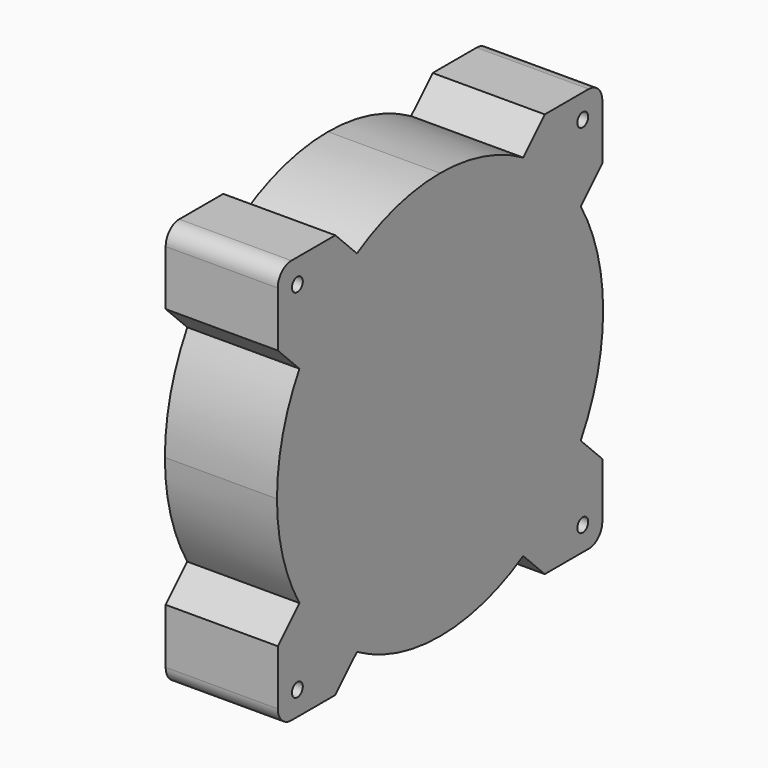
from build123d import *

# Parameters (mm, degrees)
F0_R     = 2
F1_DEPTH = 33
F2_DEPTH = 26


with BuildPart() as f1:
    # F0 (on Right) → F1 (new body)
    with BuildSketch(Plane.YZ):
        with BuildLine():
            ThreePointArc((-0.300123, 114.524561), (-1.748416, 118.089321), (-5.299918, 119.569828))
            Line((-5.299918, 119.569828), (-21.46806, 119.569828))
            Line((-21.46806, 119.569828), (-29.417219, 111.620669))
            ThreePointArc((-29.417219, 111.620669), (-44.145035, 117.867263), (-60, 120))
            ThreePointArc((-60, 120), (-75.854965, 117.867263), (-90.582781, 111.620669))
            Line((-90.582781, 111.620669), (-98.53194, 119.569828))
            Line((-98.53194, 119.569828), (-114.700082, 119.569828))
            ThreePointArc((-114.700082, 119.569828), (-118.251584, 118.089321), (-119.699877, 114.524561))
            Line((-119.699877, 114.524561), (-119.699877, 98.311358))
            Line((-119.699877, 98.311358), (-111.750718, 90.362199))
            ThreePointArc((-111.750718, 90.362199), (-117.900963, 75.731448), (-120, 60))
            ThreePointArc((-120, 60), (-117.900963, 44.268552), (-111.750718, 29.637801))
            Line((-111.750718, 29.637801), (-119.699877, 21.688642))
            Line((-119.699877, 21.688642), (-119.699877, 5.475439))
            ThreePointArc((-119.699877, 5.475439), (-118.251584, 1.910679), (-114.700082, 0.430172))
            Line((-114.700082, 0.430172), (-98.53194, 0.430172))
            Line((-98.53194, 0.430172), (-90.582781, 8.379331))
            ThreePointArc((-90.582781, 8.379331), (-75.854965, 2.132737), (-60, 0))
            ThreePointArc((-60, 0), (-44.145035, 2.132737), (-29.417219, 8.379331))
            Line((-29.417219, 8.379331), (-21.46806, 0.430172))
            Line((-21.46806, 0.430172), (-5.299918, 0.430172))
            ThreePointArc((-5.299918, 0.430172), (-1.748416, 1.910679), (-0.300123, 5.475439))
            Line((-0.300123, 5.475439), (-0.300123, 21.688642))
            Line((-0.300123, 21.688642), (-8.249282, 29.637801))
            ThreePointArc((-8.249282, 29.637801), (-2.099037, 44.268552), (0, 60))
            ThreePointArc((0, 60), (-2.099037, 75.731448), (-8.249282, 90.362199))
            Line((-8.249282, 90.362199), (-0.300123, 98.311358))
            Line((-0.300123, 98.311358), (-0.300123, 114.524561))
        make_face()
        with Locations((-112.5, 7.5)):
            Circle(F0_R, mode=Mode.SUBTRACT)
        with Locations((-7.5, 7.5)):
            Circle(F0_R, mode=Mode.SUBTRACT)
        with Locations((-112.5, 112.5)):
            Circle(F0_R, mode=Mode.SUBTRACT)
        with Locations((-7.5, 112.5)):
            Circle(F0_R, mode=Mode.SUBTRACT)
    extrude(amount=F1_DEPTH)

    # F0 (on Right) → F2 (join)
    with BuildSketch(Plane.YZ):
        with BuildLine():
            ThreePointArc((-0.300123, 114.524561), (-1.748416, 118.089321), (-5.299918, 119.569828))
            Line((-5.299918, 119.569828), (-21.46806, 119.569828))
            Line((-21.46806, 119.569828), (-29.417219, 111.620669))
            ThreePointArc((-29.417219, 111.620669), (-44.145035, 117.867263), (-60, 120))
            ThreePointArc((-60, 120), (-75.854965, 117.867263), (-90.582781, 111.620669))
            Line((-90.582781, 111.620669), (-98.53194, 119.569828))
            Line((-98.53194, 119.569828), (-114.700082, 119.569828))
            ThreePointArc((-114.700082, 119.569828), (-118.251584, 118.089321), (-119.699877, 114.524561))
            Line((-119.699877, 114.524561), (-119.699877, 98.311358))
            Line((-119.699877, 98.311358), (-111.750718, 90.362199))
            ThreePointArc((-111.750718, 90.362199), (-117.900963, 75.731448), (-120, 60))
            ThreePointArc((-120, 60), (-117.900963, 44.268552), (-111.750718, 29.637801))
            Line((-111.750718, 29.637801), (-119.699877, 21.688642))
            Line((-119.699877, 21.688642), (-119.699877, 5.475439))
            ThreePointArc((-119.699877, 5.475439), (-118.251584, 1.910679), (-114.700082, 0.430172))
            Line((-114.700082, 0.430172), (-98.53194, 0.430172))
            Line((-98.53194, 0.430172), (-90.582781, 8.379331))
            ThreePointArc((-90.582781, 8.379331), (-75.854965, 2.132737), (-60, 0))
            ThreePointArc((-60, 0), (-44.145035, 2.132737), (-29.417219, 8.379331))
            Line((-29.417219, 8.379331), (-21.46806, 0.430172))
            Line((-21.46806, 0.430172), (-5.299918, 0.430172))
            ThreePointArc((-5.299918, 0.430172), (-1.748416, 1.910679), (-0.300123, 5.475439))
            Line((-0.300123, 5.475439), (-0.300123, 21.688642))
            Line((-0.300123, 21.688642), (-8.249282, 29.637801))
            ThreePointArc((-8.249282, 29.637801), (-2.099037, 44.268552), (0, 60))
            ThreePointArc((0, 60), (-2.099037, 75.731448), (-8.249282, 90.362199))
            Line((-8.249282, 90.362199), (-0.300123, 98.311358))
            Line((-0.300123, 98.311358), (-0.300123, 114.524561))
        make_face()
        with Locations((-112.5, 7.5)):
            Circle(F0_R, mode=Mode.SUBTRACT)
        with Locations((-7.5, 7.5)):
            Circle(F0_R, mode=Mode.SUBTRACT)
        with Locations((-112.5, 112.5)):
            Circle(F0_R, mode=Mode.SUBTRACT)
        with Locations((-7.5, 112.5)):
            Circle(F0_R, mode=Mode.SUBTRACT)
    extrude(amount=F2_DEPTH)


solid = f1.part
